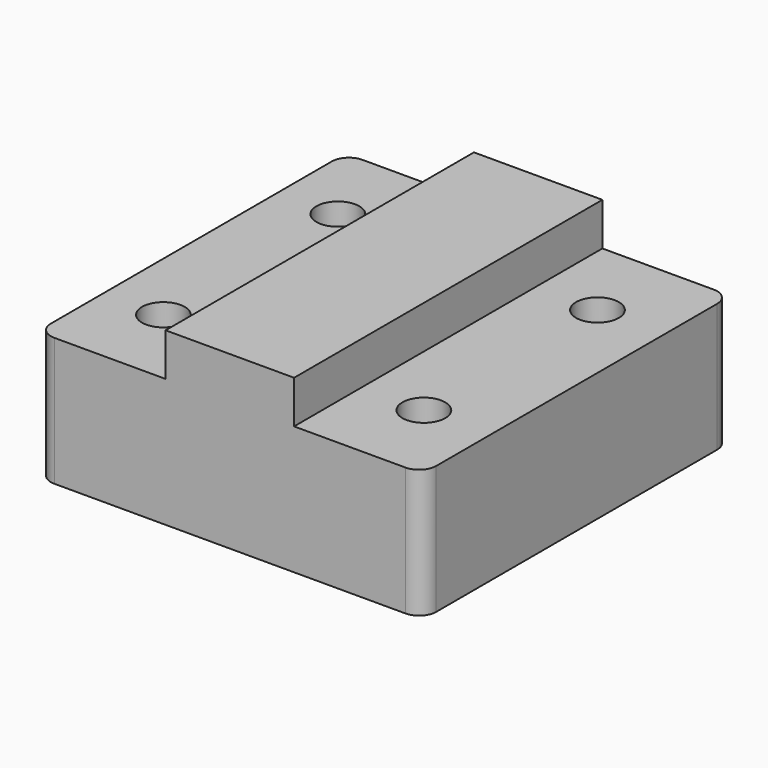
from build123d import *

# Parameters (mm, degrees)
F0_W     = 38.1
F0_H     = 114.3
F3_DEPTH = 50.8
F2_W     = 38.1
F2_H     = 114.3
F4_DEPTH = 38.1
F1_W     = 38.1
F1_H     = 114.3
F5_DEPTH = 38.1
F6_D     = 12.7
F7_D     = 12.7
F8_D     = 12.7
F9_D     = 12.7
F10_R    = 5.08
F11_R    = 5.08
F12_R    = 5.08
F13_R    = 5.08


with BuildPart() as f3:
    # F0 (on Top) → F3 (new body)
    with BuildSketch(Plane.XY):
        Rectangle(F0_W, F0_H)
    extrude(amount=F3_DEPTH)

    # F2 (on Top) → F4 (join)
    with BuildSketch(Plane.XY):
        with Locations((38.1, 0)):
            Rectangle(F2_W, F2_H)
    extrude(amount=F4_DEPTH)

    # F1 (on Top) → F5 (join)
    with BuildSketch(Plane.XY):
        with Locations((-38.1, 0)):
            Rectangle(F1_W, F1_H)
    extrude(amount=F5_DEPTH)

    # F6 (through all)
    with Locations(Plane(origin=(0, 0, 0), x_dir=(1, 0, 0), z_dir=(0, 0, -1))):
        with Locations((37.4482907355, -32.3348678648)):
            Hole(F6_D / 2)

    # F7 (through all)
    with Locations(Plane(origin=(0, 0, 0), x_dir=(1, 0, 0), z_dir=(0, 0, -1))):
        with Locations((37.4482907355, 32.0340804756)):
            Hole(F7_D / 2)

    # F8 (through all)
    with Locations(Plane(origin=(0, 0, 0), x_dir=(1, 0, 0), z_dir=(0, 0, -1))):
        with Locations((-39.5538173616, -32.3348678648)):
            Hole(F8_D / 2)

    # F9 (through all)
    with Locations(Plane(origin=(0, 0, 0), x_dir=(1, 0, 0), z_dir=(0, 0, -1))):
        with Locations((-39.5538173616, 32.3348678648)):
            Hole(F9_D / 2)

    # F10
    f10_edges = [f3.edges().sort_by_distance(p)[0] for p in [
        (-57.15, -57.15, 19.05),
    ]]
    fillet(f10_edges, radius=F10_R)

    # F11
    f11_edges = [f3.edges().sort_by_distance(p)[0] for p in [
        (57.15, -57.15, 19.05),
    ]]
    fillet(f11_edges, radius=F11_R)

    # F12
    f12_edges = [f3.edges().sort_by_distance(p)[0] for p in [
        (57.15, 57.15, 19.05),
    ]]
    fillet(f12_edges, radius=F12_R)

    # F13
    f13_edges = [f3.edges().sort_by_distance(p)[0] for p in [
        (-57.15, 57.15, 19.05),
    ]]
    fillet(f13_edges, radius=F13_R)


solid = f3.part
